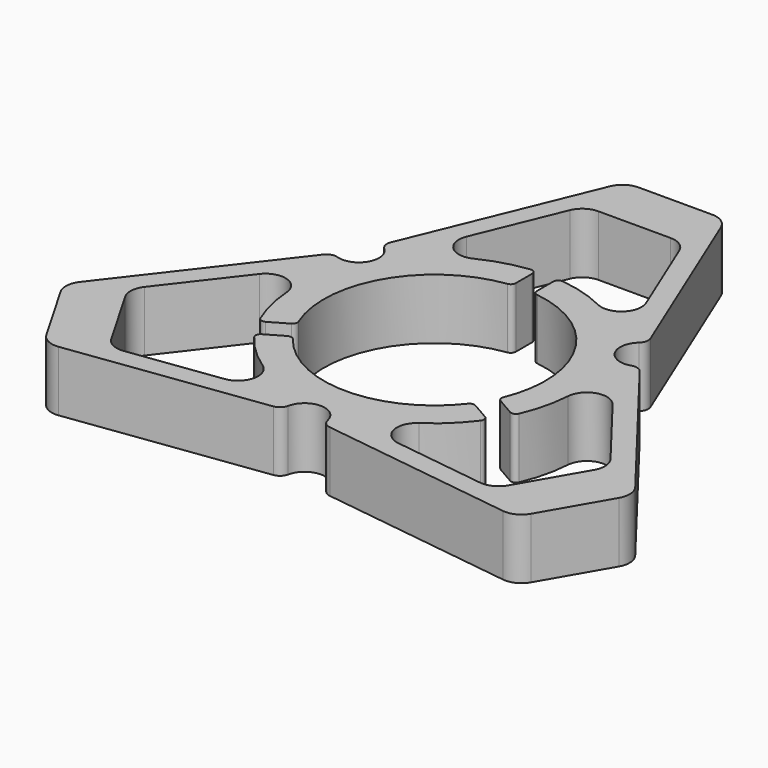
from build123d import *

# Parameters (mm, degrees)
F1_DEPTH = 6


with BuildPart() as f1:
    # F0 (on Top) → F1 (new body)
    with BuildSketch(Plane.XY):
        with BuildLine():
            Line((3.66008, 29.904429), (-3.66008, 29.904429))
            ThreePointArc((-3.66008, 29.904429), (-4.773266, 29.566), (-5.509717, 28.665246))
            Line((-5.509717, 28.665246), (-12.904586, 10.687453))
            ThreePointArc((-12.904586, 10.687453), (-12.954508, 10.083702), (-12.646693, 9.56192))
            ThreePointArc((-12.646693, 9.56192), (-12.248494, 7.071671), (-14.604212, 6.171398))
            ThreePointArc((-14.604212, 6.171398), (-15.209996, 6.177082), (-15.707898, 5.831973))
            Line((-15.707898, 5.831973), (-27.57969, -9.561068))
            ThreePointArc((-27.57969, -9.561068), (-27.99154, -10.64923), (-27.728035, -11.782492))
            Line((-27.728035, -11.782492), (-24.067955, -18.121937))
            ThreePointArc((-24.067955, -18.121937), (-23.218274, -18.916769), (-22.069973, -19.104178))
            Line((-22.069973, -19.104178), (-2.803313, -16.519426))
            ThreePointArc((-2.803313, -16.519426), (-2.255488, -16.260784), (-1.957519, -15.733317))
            ThreePointArc((-1.957519, -15.733317), (0, -14.143342), (1.957519, -15.733317))
            ThreePointArc((1.957519, -15.733317), (2.255488, -16.260784), (2.803313, -16.519426))
            Line((2.803313, -16.519426), (22.069973, -19.104178))
            ThreePointArc((22.069973, -19.104178), (23.218274, -18.916769), (24.067955, -18.121937))
            Line((24.067955, -18.121937), (27.728035, -11.782492))
            ThreePointArc((27.728035, -11.782492), (27.99154, -10.64923), (27.57969, -9.561068))
            Line((27.57969, -9.561068), (15.707898, 5.831973))
            ThreePointArc((15.707898, 5.831973), (15.209996, 6.177082), (14.604212, 6.171398))
            ThreePointArc((14.604212, 6.171398), (12.248494, 7.071671), (12.646693, 9.56192))
            ThreePointArc((12.646693, 9.56192), (12.954508, 10.083702), (12.904586, 10.687453))
            Line((12.904586, 10.687453), (5.509717, 28.665246))
            ThreePointArc((5.509717, 28.665246), (4.773266, 29.566), (3.66008, 29.904429))
        make_face()
        with BuildLine():
            ThreePointArc((-10.180424, -4.16641), (-9.526279, 5.5), (-1.481994, 10.899711))
            ThreePointArc((-1.481994, 10.899711), (-1.17274, 11.066276), (-1.049358, 11.395152))
            Line((-1.049358, 11.395152), (-1.049358, 13.410798))
            ThreePointArc((-1.049358, 13.410798), (-1.216711, 13.784088), (-1.606741, 13.907494))
            ThreePointArc((-1.606741, 13.907494), (-3.955309, 13.429651), (-6.187959, 12.558231))
            ThreePointArc((-6.187959, 12.558231), (-8.437578, 12.891077), (-8.92159, 15.113082))
            Line((-8.92159, 15.113082), (-5.437741, 23.582728))
            ThreePointArc((-5.437741, 23.582728), (-4.701289, 24.483481), (-3.588104, 24.82191))
            Line((-3.588104, 24.82191), (3.588104, 24.82191))
            ThreePointArc((3.588104, 24.82191), (4.701289, 24.483481), (5.437741, 23.582728))
            Line((5.437741, 23.582728), (8.92159, 15.113082))
            ThreePointArc((8.92159, 15.113082), (8.437578, 12.891077), (6.187959, 12.558231))
            ThreePointArc((6.187959, 12.558231), (3.955309, 13.429651), (1.606741, 13.907494))
            ThreePointArc((1.606741, 13.907494), (1.216711, 13.784088), (1.049358, 13.410798))
            Line((1.049358, 13.410798), (1.049358, 11.395152))
            ThreePointArc((1.049358, 11.395152), (1.17274, 11.066276), (1.481994, 10.899711))
            ThreePointArc((1.481994, 10.899711), (9.526279, 5.5), (10.180424, -4.16641))
            ThreePointArc((10.180424, -4.16641), (10.170047, -4.517515), (10.39317, -4.788805))
            Line((10.39317, -4.788805), (12.13877, -5.796628))
            ThreePointArc((12.13877, -5.796628), (12.545726, -5.838342), (12.847614, -5.562268))
            ThreePointArc((12.847614, -5.562268), (13.608073, -3.289428), (13.969726, -0.920186))
            ThreePointArc((13.969726, -0.920186), (15.382789, 0.861619), (17.549107, 0.169783))
            Line((17.549107, 0.169783), (23.142112, -7.082143))
            ThreePointArc((23.142112, -7.082143), (23.553962, -8.170305), (23.290457, -9.303566))
            Line((23.290457, -9.303566), (19.702353, -15.518344))
            ThreePointArc((19.702353, -15.518344), (18.852672, -16.313177), (17.704371, -16.500586))
            Line((17.704371, -16.500586), (8.627518, -15.282864))
            ThreePointArc((8.627518, -15.282864), (6.945211, -13.752695), (7.781768, -11.638045))
            ThreePointArc((7.781768, -11.638045), (9.652765, -10.140223), (11.240872, -8.345226))
            ThreePointArc((11.240872, -8.345226), (11.329015, -7.945747), (11.089412, -7.614169))
            Line((11.089412, -7.614169), (9.343812, -6.606347))
            ThreePointArc((9.343812, -6.606347), (8.997306, -6.548761), (8.698429, -6.7333))
            ThreePointArc((8.698429, -6.7333), (0, -11), (-8.698429, -6.7333))
            ThreePointArc((-8.698429, -6.7333), (-8.997306, -6.548761), (-9.343812, -6.606347))
            Line((-9.343812, -6.606347), (-11.089412, -7.614169))
            ThreePointArc((-11.089412, -7.614169), (-11.329015, -7.945747), (-11.240872, -8.345226))
            ThreePointArc((-11.240872, -8.345226), (-9.652765, -10.140223), (-7.781768, -11.638045))
            ThreePointArc((-7.781768, -11.638045), (-6.945211, -13.752695), (-8.627518, -15.282864))
            Line((-8.627518, -15.282864), (-17.704371, -16.500586))
            ThreePointArc((-17.704371, -16.500586), (-18.852672, -16.313177), (-19.702353, -15.518344))
            Line((-19.702353, -15.518344), (-23.290457, -9.303566))
            ThreePointArc((-23.290457, -9.303566), (-23.553962, -8.170305), (-23.142112, -7.082143))
            Line((-23.142112, -7.082143), (-17.549107, 0.169783))
            ThreePointArc((-17.549107, 0.169783), (-15.382789, 0.861619), (-13.969726, -0.920186))
            ThreePointArc((-13.969726, -0.920186), (-13.608073, -3.289428), (-12.847614, -5.562268))
            ThreePointArc((-12.847614, -5.562268), (-12.545726, -5.838342), (-12.13877, -5.796628))
            Line((-12.13877, -5.796628), (-10.39317, -4.788805))
            ThreePointArc((-10.39317, -4.788805), (-10.170047, -4.517515), (-10.180424, -4.16641))
        make_face(mode=Mode.SUBTRACT)
    extrude(amount=F1_DEPTH)


solid = f1.part
